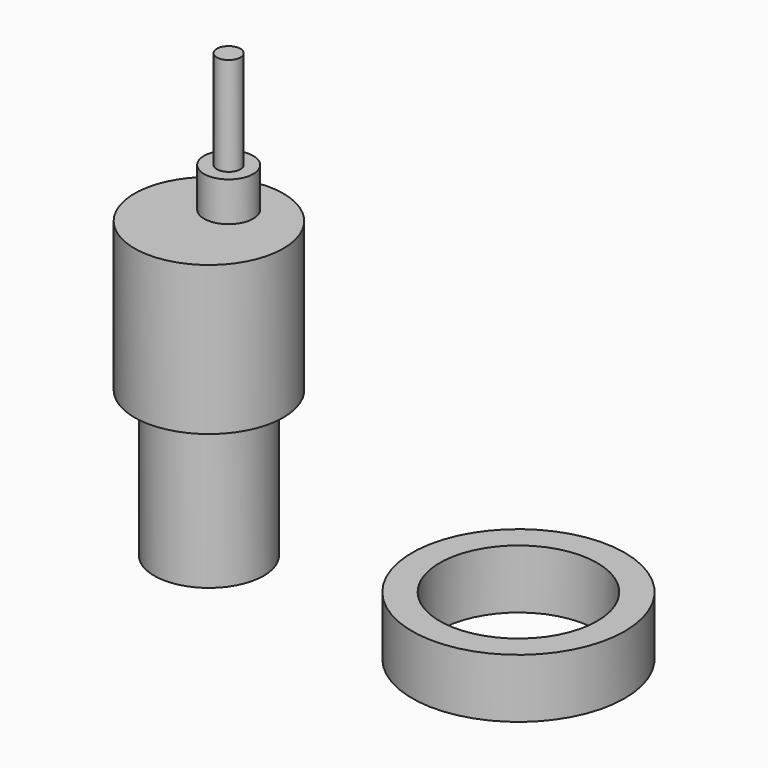
from build123d import *

# Parameters (mm, degrees)
F0_R     = 13.9
F1_DEPTH = 37
F2_R     = 18.9
F3_DEPTH = 37.8
F4_R     = 6.25
F5_DEPTH = 10
F6_R     = 3
F7_DEPTH = 25
F8_R     = 27
F8_R_2   = 20
F9_DEPTH = 15


with BuildPart() as f1:
    # F0 (on Top) → F1 (new body)
    with BuildSketch(Plane.XY):
        Circle(F0_R)
    extrude(amount=F1_DEPTH)

    # F2 (on face) → F3 (join)
    with BuildSketch(Plane.XY.offset(37)):
        Circle(F2_R)
    extrude(amount=F3_DEPTH)

    # F4 (on face) → F5 (join)
    with BuildSketch(Plane.XY.offset(74.8)):
        with Locations((0, 6.25)):
            Circle(F4_R)
    extrude(amount=F5_DEPTH)


with BuildPart() as f7:
    # F6 (on face) → F7 (new body)
    with BuildSketch(Plane.XY.offset(84.8)):
        with Locations((0, 6.25)):
            Circle(F6_R)
    extrude(amount=F7_DEPTH)


with BuildPart() as f9:
    # F8 (on Top) → F9 (new body)
    with BuildSketch(Plane.XY):
        with Locations((75.688303, 3.634093)):
            Circle(F8_R)
        with Locations((75.688303, 3.634093)):
            Circle(F8_R_2, mode=Mode.SUBTRACT)
    extrude(amount=F9_DEPTH)


solid = Compound([f1.part, f7.part, f9.part])
